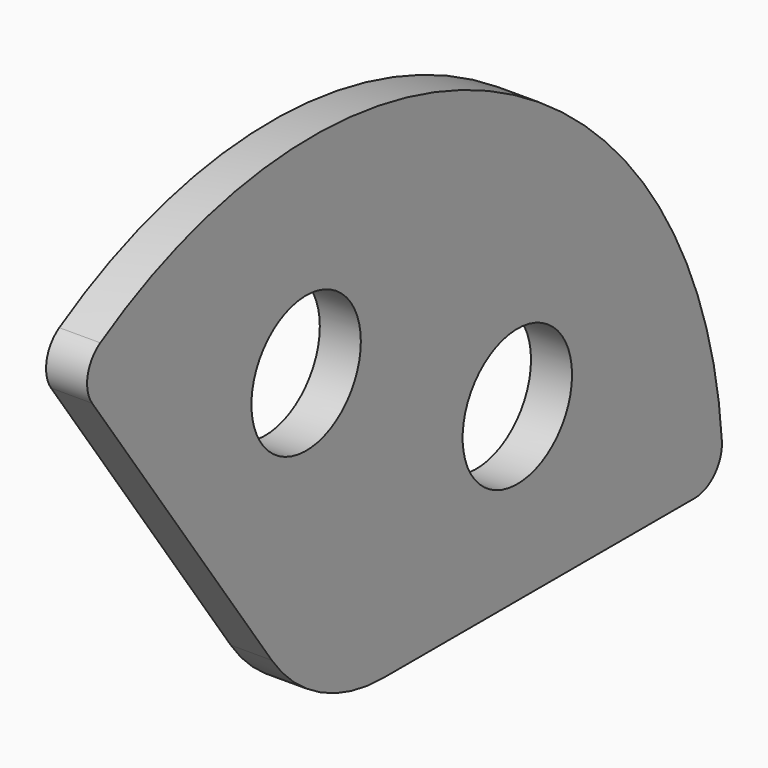
from build123d import *

# Parameters (mm, degrees)
F1_DEPTH = 6
F2_R     = 25
F3_R     = 5
F4_R     = 10
F5_DEPTH = 6.001


with BuildPart() as f1:
    # F0 (on Right) → F1 (new body)
    with BuildSketch(Plane.YZ):
        with BuildLine():
            Line((-43.301281, 61.237236), (0, 0))
            Line((0, 0), (75, 0))
            ThreePointArc((75, 0), (34.477557, 66.605541), (-43.301281, 61.237236))
        make_face()
    extrude(amount=F1_DEPTH)

    # F2
    f2_edges = [f1.edges().sort_by_distance(p)[0] for p in [
        (3, 0, 0),
    ]]
    fillet(f2_edges, radius=F2_R)

    # F3
    f3_edges = [f1.edges().sort_by_distance(p)[0] for p in [
        (3, -43.301281, 61.237236),
        (3, 75, 0),
    ]]
    fillet(f3_edges, radius=F3_R)

    # F4 (on face) → F5 (cut, through all)
    with BuildSketch(Plane.YZ.offset(6)):
        with Locations((-1.190063, 44.984261)):
            Circle(F4_R)
        with Locations((37.416574, 25)):
            Circle(F4_R)
    extrude(amount=-F5_DEPTH, mode=Mode.SUBTRACT)


solid = f1.part
